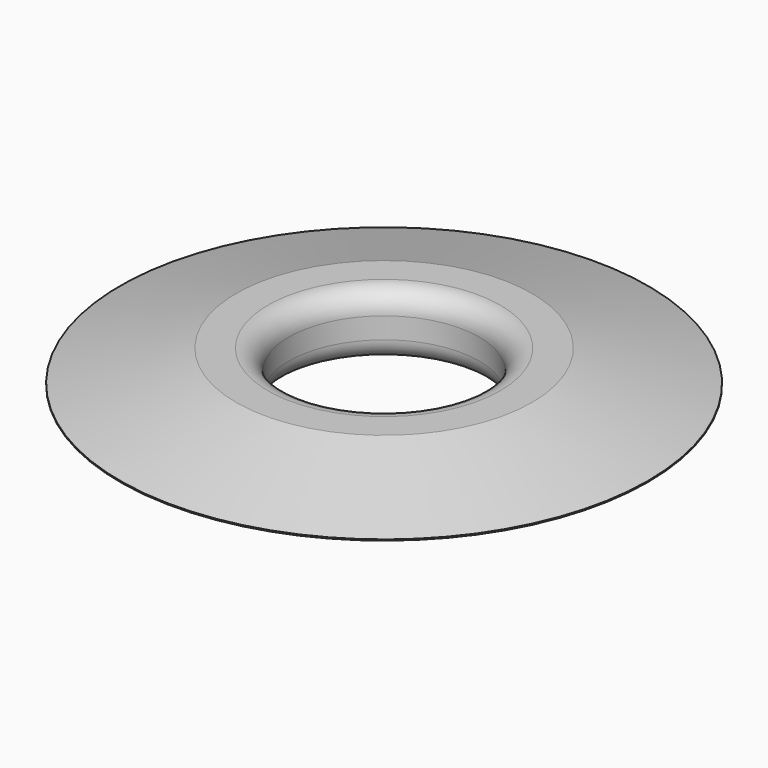
from build123d import *

# Parameters (mm, degrees)
F0_R     = 63.5
F1_DEPTH = 15.24
F2_SIZE2 = 27.94
F2_SIZE  = 7.4865004365
F3_R     = 22.86
F4_DEPTH = 25.4
F5_R     = 5.08


with BuildPart() as f1:
    # F0 (on Top) → F1 (new body)
    with BuildSketch(Plane.XY):
        Circle(F0_R)
    extrude(amount=F1_DEPTH)

    # F2
    f2_edges = [f1.edges().sort_by_distance(p)[0] for p in [
        (-63.5, 0, 15.24),
        (63.5, 0, 7.62),
        (-63.5, 0, 0),
    ]]
    f2_side = f1.faces().sort_by_distance((-63.5, 0, 7.62))[0]
    chamfer(f2_edges, length=F2_SIZE, length2=F2_SIZE2, reference=f2_side)

    # F3 (on face) → F4 (cut)
    with BuildSketch(Plane.XY.offset(15.24)):
        Circle(F3_R)
    extrude(amount=-F4_DEPTH, mode=Mode.SUBTRACT)

    # F5
    f5_edges = [f1.edges().sort_by_distance(p)[0] for p in [
        (-22.86, 0, 15.24),
        (-22.86, 0, 0),
    ]]
    fillet(f5_edges, radius=F5_R)


solid = f1.part
